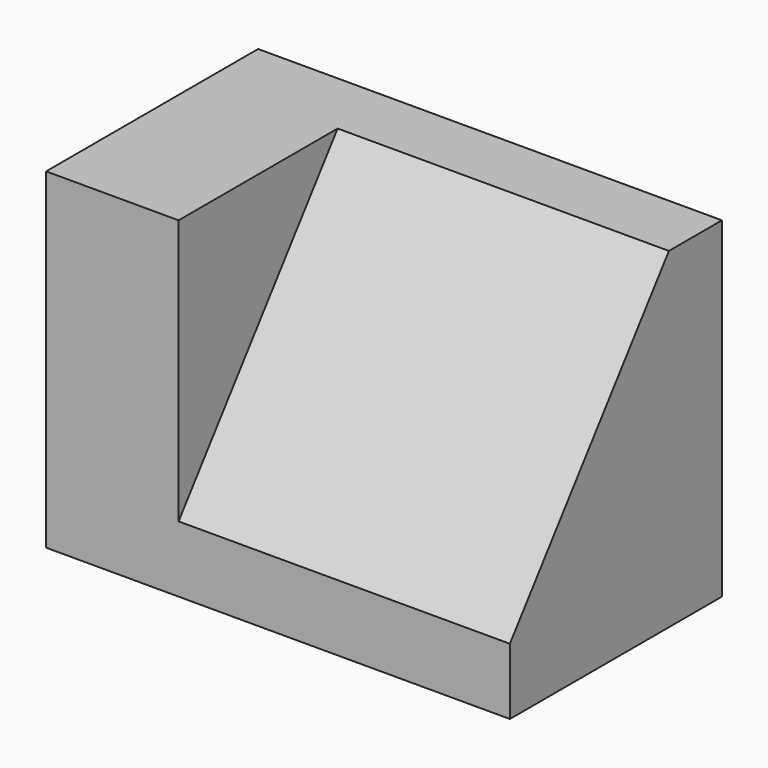
from build123d import *

# Parameters (mm, degrees)
F1_DEPTH = 31.75
F3_DEPTH = 12.7


with BuildPart() as f1:
    # F0 (on Right) → F1 (new body)
    with BuildSketch(Plane.YZ):
        Polygon((0, 6.35), (0, 0), (25.4, 0), (25.4, 31.75), (19.05, 31.75), align=None)
    extrude(amount=F1_DEPTH)

    # F2 (on Right) → F3 (join)
    with BuildSketch(Plane.YZ):
        Polygon((0, 0), (25.4, 0), (25.4, 31.75), (17.971699, 31.75), (0, 31.75), align=None)
    extrude(amount=-F3_DEPTH)


solid = f1.part
